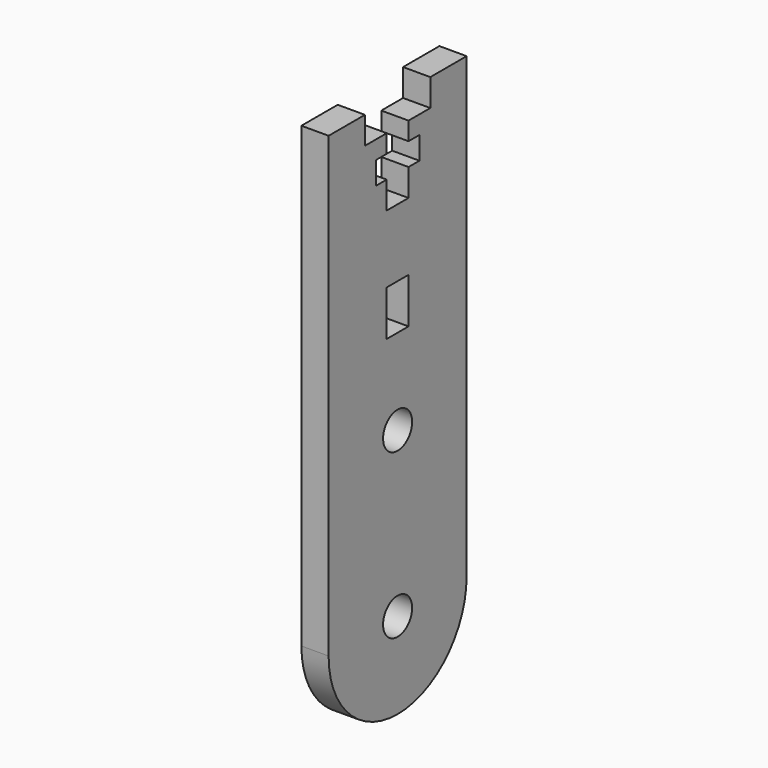
from build123d import *

# Parameters (mm, degrees)
F0_R     = 2
F0_W     = 3
F0_H     = 5
F1_DEPTH = 3


with BuildPart() as f1:
    # F0 (on Right) → F1 (new body)
    with BuildSketch(Plane.YZ):
        with BuildLine():
            Line((-51.601472, 15.769853), (-56.601472, 15.769853))
            Line((-56.601472, 15.769853), (-56.601472, -34.680147))
            ThreePointArc((-56.601472, -34.680147), (-47.101472, -44.180147), (-37.601472, -34.680147))
            Line((-37.601472, -34.680147), (-37.601472, 15.769853))
            Line((-37.601472, 15.769853), (-42.601472, 15.769853))
            Line((-42.601472, 15.769853), (-42.601472, 12.769853))
            Line((-42.601472, 12.769853), (-45.601472, 12.769853))
            Line((-45.601472, 12.769853), (-45.601472, 10.769853))
            Line((-45.601472, 10.769853), (-44.101472, 10.769853))
            Line((-44.101472, 10.769853), (-44.101472, 8.269853))
            Line((-44.101472, 8.269853), (-45.601472, 8.269853))
            Line((-45.601472, 8.269853), (-45.601472, 5.269853))
            Line((-45.601472, 5.269853), (-48.601472, 5.269853))
            Line((-48.601472, 5.269853), (-48.601472, 8.269853))
            Line((-48.601472, 8.269853), (-50.101472, 8.269853))
            Line((-50.101472, 8.269853), (-50.101472, 10.769853))
            Line((-50.101472, 10.769853), (-48.601472, 10.769853))
            Line((-48.601472, 10.769853), (-48.601472, 12.769853))
            Line((-48.601472, 12.769853), (-51.601472, 12.769853))
            Line((-51.601472, 12.769853), (-51.601472, 15.769853))
        make_face()
        with Locations((-47.101472, -34.680147)):
            Circle(F0_R, mode=Mode.SUBTRACT)
        with Locations((-47.101472, -16.640147)):
            Circle(F0_R, mode=Mode.SUBTRACT)
        with Locations((-47.101472, -4.685147)):
            Rectangle(F0_W, F0_H, mode=Mode.SUBTRACT)
    extrude(amount=F1_DEPTH)


solid = f1.part
